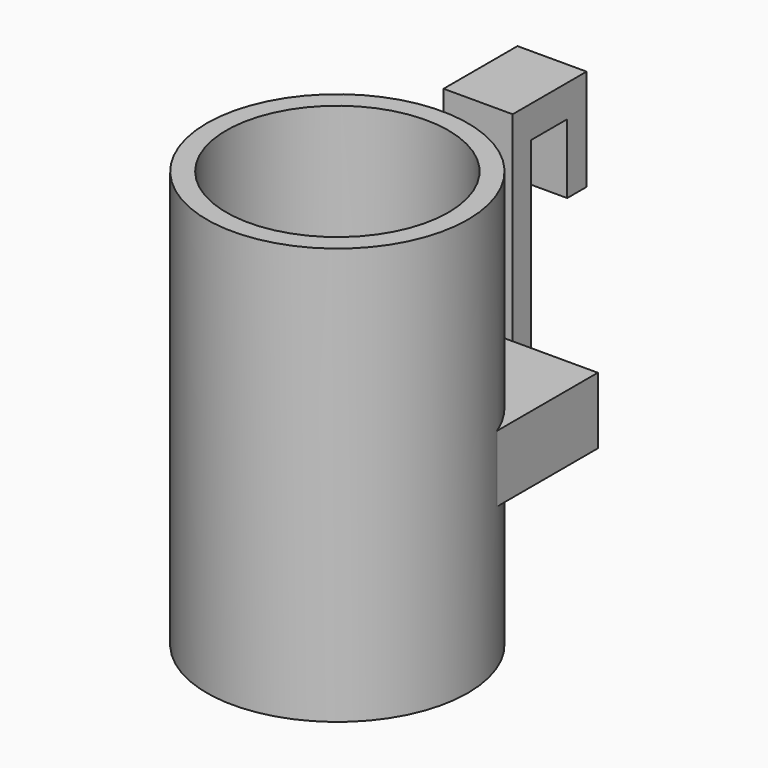
from build123d import *

# Parameters (mm, degrees)
F0_R      = 47.751218
F1_DEPTH  = 152.4
F2_R      = 40.626072
F3_DEPTH  = 115.57
F4_W      = 88.883296
F4_H      = 24.363942
F5_DEPTH  = 63.5
F6_W      = 25.266318
F6_H      = 97.455788
F7_DEPTH  = 8.382
F8_W      = 25.266318
F8_H      = 11.73079
F9_DEPTH  = 25.4
F10_W     = 25.266318
F10_H     = 8.8453
F11_DEPTH = 25.4


with BuildPart() as f1:
    # F0 (on Top) → F1 (new body)
    with BuildSketch(Plane.XY):
        Circle(F0_R)
    extrude(amount=F1_DEPTH)

    # F2 (on face) → F3 (cut)
    with BuildSketch(Plane.XY.offset(152.4)):
        Circle(F2_R)
    extrude(amount=-F3_DEPTH, mode=Mode.SUBTRACT)

    # F4 (on Front) → F5 (join)
    with BuildSketch(Plane.XZ):
        with Locations((0, 64.04309)):
            Rectangle(F4_W, F4_H)
    extrude(amount=-F5_DEPTH)

    # F6 (on face) → F7 (join)
    with BuildSketch(Plane(origin=(0, 63.5, 0), x_dir=(-1, 0, 0), z_dir=(0, 1, 0))):
        with Locations((-0.676776, 100.589013)):
            Rectangle(F6_W, F6_H)
    extrude(amount=F7_DEPTH)

    # F8 (on face) → F9 (join)
    with BuildSketch(Plane(origin=(0, 71.882, 0), x_dir=(-1, 0, 0), z_dir=(0, 1, 0))):
        with Locations((-0.676776, 143.451512)):
            Rectangle(F8_W, F8_H)
    extrude(amount=F9_DEPTH)

    # F10 (on face) → F11 (join)
    with BuildSketch(Plane(origin=(0, 0, 137.586117), x_dir=(1, 0, 0), z_dir=(0, 0, -1))):
        with Locations((0.676776, -92.85935)):
            Rectangle(F10_W, F10_H)
    extrude(amount=F11_DEPTH)


solid = f1.part
